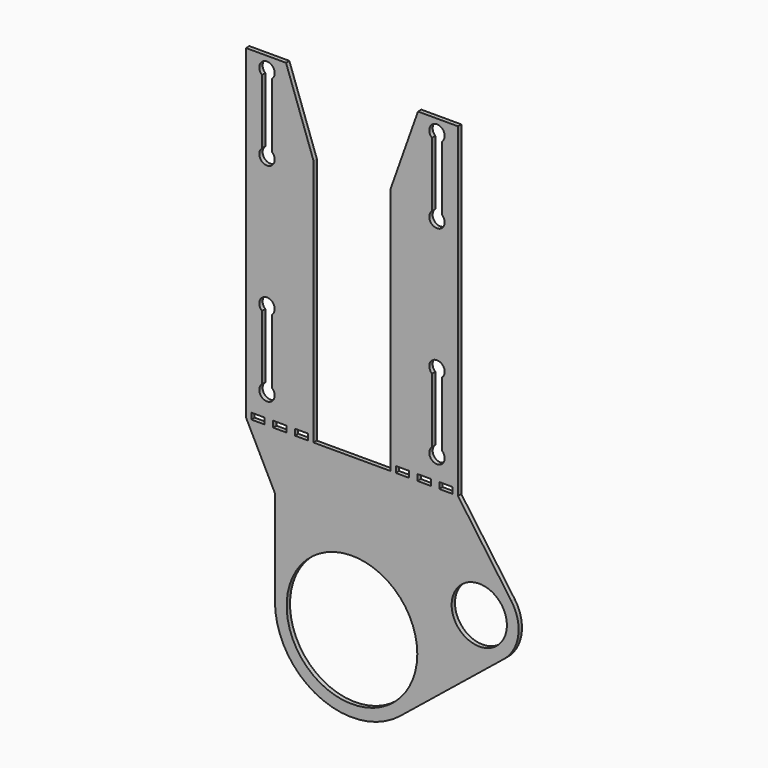
from build123d import *

# Parameters (mm, degrees)
F1_R     = 39
F1_W     = 7.9375
F1_H     = 3.675
F1_R_2   = 16.5
F2_DEPTH = 2.5


with BuildPart() as f2:
    # F1 (on Front) → F2 (new body)
    with BuildSketch(Plane.XZ):
        with BuildLine():
            Line((95.154284, -117.461151), (63.25, -72.575973))
            Line((63.25, -72.575973), (63.25, 121.699027))
            Line((63.25, 121.699027), (39.39208, 121.699027))
            Line((39.39208, 121.699027), (23, 75.604424))
            Line((23, 75.604424), (23, -72.575973))
            Line((23, -72.575973), (0, -72.575973))
            Line((0, -72.575973), (-23, -72.575973))
            Line((-23, -72.575973), (-23, 75.604424))
            Line((-23, 75.604424), (-39.39208, 121.699027))
            Line((-39.39208, 121.699027), (-63.25, 121.699027))
            Line((-63.25, 121.699027), (-63.25, -72.575973))
            Line((-63.25, -72.575973), (-46, -106.751867))
            Line((-46, -106.751867), (-46, -163.575973))
            ThreePointArc((-46, -163.575973), (-19.82207, -205.086039), (28.916763, -199.350557))
            Line((28.916763, -199.350557), (90.772694, -149.352119))
            ThreePointArc((90.772694, -149.352119), (99.281289, -134.274656), (95.154284, -117.461151))
        make_face()
        with Locations((0, -163.575973)):
            Circle(F1_R, mode=Mode.SUBTRACT)
        with Locations((-56.125, -70.738473)):
            Rectangle(F1_W, F1_H, mode=Mode.SUBTRACT)
        with Locations((-43.125, -70.738473)):
            Rectangle(F1_W, F1_H, mode=Mode.SUBTRACT)
        with Locations((-30.125, -70.738473)):
            Rectangle(F1_W, F1_H, mode=Mode.SUBTRACT)
        with Locations((76, -131.075973)):
            Circle(F1_R_2, mode=Mode.SUBTRACT)
        with Locations((30.125, -70.738473)):
            Rectangle(F1_W, F1_H, mode=Mode.SUBTRACT)
        with Locations((43.125, -70.738473)):
            Rectangle(F1_W, F1_H, mode=Mode.SUBTRACT)
        with Locations((56.125, -70.738473)):
            Rectangle(F1_W, F1_H, mode=Mode.SUBTRACT)
        with BuildLine():
            Line((-53.75, -30.412018), (-53.75, -13.388093))
            ThreePointArc((-53.75, -13.388093), (-52.668333, -5.720064), (-46.15, -9.900973))
            ThreePointArc((-46.15, -9.900973), (-46.569091, -11.819306), (-47.75, -13.388093))
            Line((-47.75, -13.388093), (-47.75, -30.412018))
            Line((-47.75, -30.412018), (-47.75, -32.650973))
            Line((-47.75, -32.650973), (-47.75, -34.889929))
            Line((-47.75, -34.889929), (-47.75, -51.913854))
            ThreePointArc((-47.75, -51.913854), (-46.569091, -53.482641), (-46.15, -55.400973))
            ThreePointArc((-46.15, -55.400973), (-52.668333, -59.581882), (-53.75, -51.913854))
            Line((-53.75, -51.913854), (-53.75, -34.889929))
            Line((-53.75, -34.889929), (-53.75, -32.650973))
            Line((-53.75, -32.650973), (-53.75, -30.412018))
        make_face(mode=Mode.SUBTRACT)
        with BuildLine():
            Line((-53.75, 72.086146), (-53.75, 91.174603))
            Line((-53.75, 91.174603), (-53.75, 91.349027))
            Line((-53.75, 91.349027), (-53.75, 91.523451))
            Line((-53.75, 91.523451), (-53.75, 110.611907))
            ThreePointArc((-53.75, 110.611907), (-52.668333, 118.279936), (-46.15, 114.099027))
            ThreePointArc((-46.15, 114.099027), (-46.569091, 112.180694), (-47.75, 110.611907))
            Line((-47.75, 110.611907), (-47.75, 91.523451))
            Line((-47.75, 91.523451), (-47.75, 91.349027))
            Line((-47.75, 91.349027), (-47.75, 91.174603))
            Line((-47.75, 91.174603), (-47.75, 72.086146))
            ThreePointArc((-47.75, 72.086146), (-46.569091, 70.517359), (-46.15, 68.599027))
            ThreePointArc((-46.15, 68.599027), (-52.668333, 64.418118), (-53.75, 72.086146))
        make_face(mode=Mode.SUBTRACT)
        with BuildLine():
            Line((53.75, -34.889929), (53.75, -51.913854))
            ThreePointArc((53.75, -51.913854), (54.930909, -53.482641), (55.35, -55.400973))
            ThreePointArc((55.35, -55.400973), (48.831667, -59.581882), (47.75, -51.913854))
            Line((47.75, -51.913854), (47.75, -34.889929))
            Line((47.75, -34.889929), (47.75, -32.650973))
            Line((47.75, -32.650973), (47.75, -30.412018))
            Line((47.75, -30.412018), (47.75, -13.388093))
            ThreePointArc((47.75, -13.388093), (48.831667, -5.720064), (55.35, -9.900973))
            ThreePointArc((55.35, -9.900973), (54.930909, -11.819306), (53.75, -13.388093))
            Line((53.75, -13.388093), (53.75, -30.412018))
            Line((53.75, -30.412018), (53.75, -32.650973))
            Line((53.75, -32.650973), (53.75, -34.889929))
        make_face(mode=Mode.SUBTRACT)
        with BuildLine():
            Line((53.75, 91.174603), (53.75, 72.086146))
            ThreePointArc((53.75, 72.086146), (54.930909, 70.517359), (55.35, 68.599027))
            ThreePointArc((55.35, 68.599027), (48.831667, 64.418118), (47.75, 72.086146))
            Line((47.75, 72.086146), (47.75, 91.174603))
            Line((47.75, 91.174603), (47.75, 91.349027))
            Line((47.75, 91.349027), (47.75, 91.523451))
            Line((47.75, 91.523451), (47.75, 110.611907))
            ThreePointArc((47.75, 110.611907), (48.831667, 118.279936), (55.35, 114.099027))
            ThreePointArc((55.35, 114.099027), (54.930909, 112.180694), (53.75, 110.611907))
            Line((53.75, 110.611907), (53.75, 91.523451))
            Line((53.75, 91.523451), (53.75, 91.349027))
            Line((53.75, 91.349027), (53.75, 91.174603))
        make_face(mode=Mode.SUBTRACT)
    extrude(amount=F2_DEPTH)


solid = f2.part
